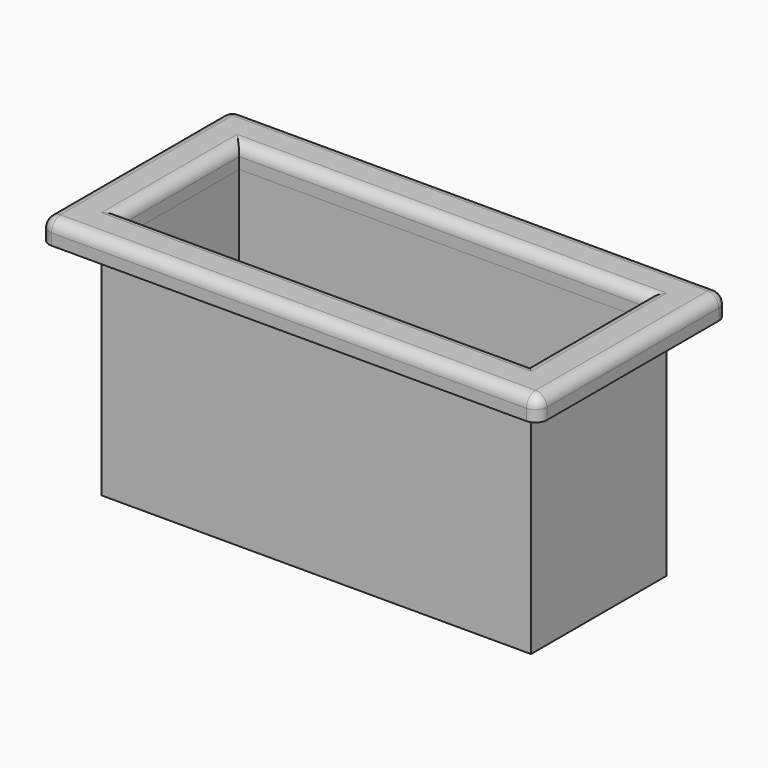
from build123d import *

# Parameters (mm, degrees)
F0_W     = 38
F0_H     = 15
F0_W_2   = 36
F0_H_2   = 13
F1_DEPTH = 20
F0_W_3   = 44
F0_H_3   = 21
F2_DEPTH = 2
F3_R     = 1


with BuildPart() as f1:
    # F0 (on Top) → F1 (new body)
    with BuildSketch(Plane.XY):
        Rectangle(F0_W, F0_H)
        Rectangle(F0_W_2, F0_H_2, mode=Mode.SUBTRACT)
    extrude(amount=-F1_DEPTH)


with BuildPart() as f2:
    # F0 (on Top) → F2 (new body)
    with BuildSketch(Plane.XY):
        Rectangle(F0_W_3, F0_H_3)
        Rectangle(F0_W, F0_H, mode=Mode.SUBTRACT)
        Rectangle(F0_W, F0_H)
        Rectangle(F0_W_2, F0_H_2, mode=Mode.SUBTRACT)
    extrude(amount=F2_DEPTH)

    # F3
    f3_edges = [f2.edges().sort_by_distance(p)[0] for p in [
        (0, 6.5, 2),
        (-18, 0, 2),
        (0, -6.5, 2),
        (18, 0, 2),
        (-22, 0, 2),
        (0, 10.5, 2),
        (0, -10.5, 2),
        (22, 0, 2),
        (-22, -10.5, 1),
        (22, -10.5, 1),
        (22, 10.5, 1),
        (-22, 10.5, 1),
    ]]
    fillet(f3_edges, radius=F3_R)


solid = Compound([f1.part, f2.part])
